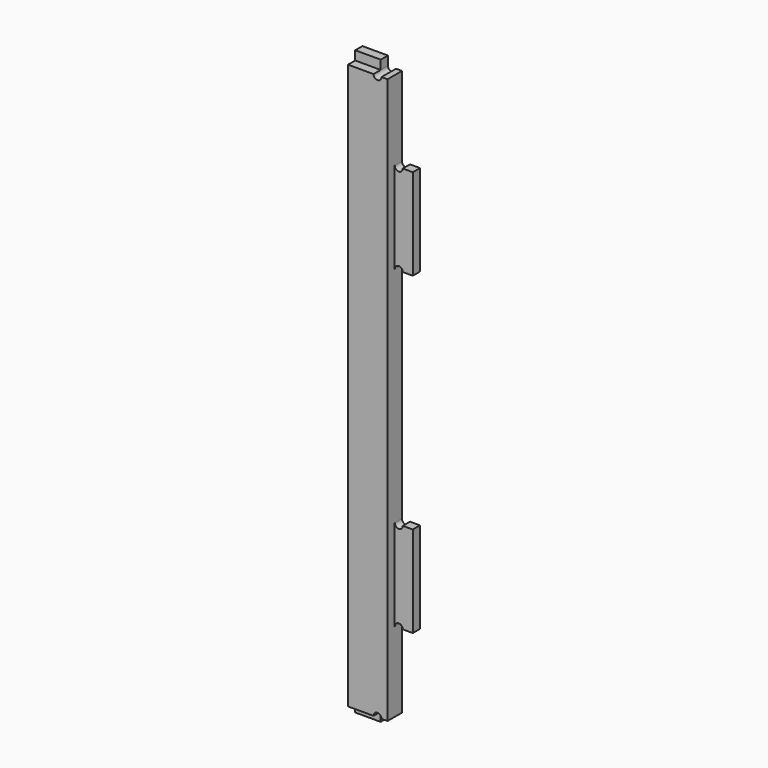
from build123d import *

# Parameters (mm, degrees)
F1_DEPTH = 18
F0_W     = 25.45
F0_H     = 9
F2_DEPTH = 9


with BuildPart() as f1:
    # F0 (on Front) → F1 (new body)
    with BuildSketch(Plane.XZ):
        with BuildLine():
            Line((-27.599424, 185.439078), (-27.599424, 276.439078))
            Line((-27.599424, 276.439078), (-27.599424, 278.939078))
            Line((-27.599424, 278.939078), (-27.599424, 355.939078))
            Line((-27.599424, 355.939078), (-33.599424, 355.939078))
            ThreePointArc((-33.599424, 355.939078), (-37.599424, 351.939078), (-41.599424, 355.939078))
            Line((-41.599424, 355.939078), (-67.049424, 355.939078))
            Line((-67.049424, 355.939078), (-67.049424, -208.060922))
            Line((-67.049424, -208.060922), (-41.599424, -208.060922))
            ThreePointArc((-41.599424, -208.060922), (-37.599424, -204.060922), (-33.599424, -208.060922))
            Line((-33.599424, -208.060922), (-27.599424, -208.060922))
            Line((-27.599424, -208.060922), (-27.599424, -131.060922))
            Line((-27.599424, -131.060922), (-27.599424, -128.560922))
            Line((-27.599424, -128.560922), (-27.599424, -37.560922))
            Line((-27.599424, -37.560922), (-27.599424, -35.060922))
            Line((-27.599424, -35.060922), (-27.599424, 182.939078))
            Line((-27.599424, 182.939078), (-27.599424, 185.439078))
        make_face()
    extrude(amount=F1_DEPTH)

    # F0 (on Front) → F2 (join)
    with BuildSketch(Plane.XZ):
        with Locations((-54.324424, 360.439078)):
            Rectangle(F0_W, F0_H)
        with BuildLine():
            ThreePointArc((-19.599424, 276.439078), (-23.599424, 272.439078), (-27.599424, 276.439078))
            Line((-27.599424, 276.439078), (-27.599424, 185.439078))
            ThreePointArc((-27.599424, 185.439078), (-23.599424, 189.439078), (-19.599424, 185.439078))
            Line((-19.599424, 185.439078), (-9.599424, 185.439078))
            Line((-9.599424, 185.439078), (-9.599424, 276.439078))
            Line((-9.599424, 276.439078), (-19.599424, 276.439078))
        make_face()
        with BuildLine():
            ThreePointArc((-19.599424, -37.560922), (-23.599424, -41.560922), (-27.599424, -37.560922))
            Line((-27.599424, -37.560922), (-27.599424, -128.560922))
            ThreePointArc((-27.599424, -128.560922), (-23.599424, -124.560922), (-19.599424, -128.560922))
            Line((-19.599424, -128.560922), (-9.599424, -128.560922))
            Line((-9.599424, -128.560922), (-9.599424, -37.560922))
            Line((-9.599424, -37.560922), (-19.599424, -37.560922))
        make_face()
        with Locations((-54.324424, -212.560922)):
            Rectangle(F0_W, F0_H)
    extrude(amount=F2_DEPTH)


solid = f1.part
